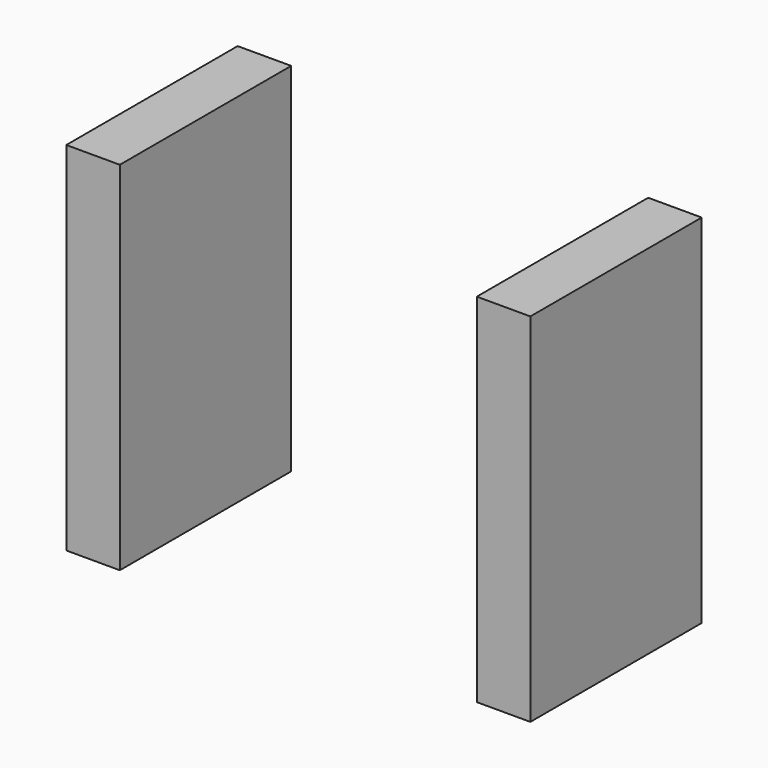
from build123d import *

# Parameters (mm, degrees)
BOX004005_W     = 1.5
BOX004005_H     = 6
BOX004005_DEPTH = 10
BOX004006_W     = 1.5
BOX004006_H     = 6
BOX004006_DEPTH = 10


with BuildPart() as cube009:
    # Box004005 → Box004005 (new body)
    with BuildSketch(Plane(origin=(-6.5, 1, 0), x_dir=(1, 0, 0), z_dir=(0, 0, 1))):
        with Locations((0.75, 3)):
            Rectangle(BOX004005_W, BOX004005_H)
    extrude(amount=BOX004005_DEPTH)


with BuildPart() as fusion001003005:
    # Box004006 → Box004006 (new body)
    with BuildSketch(Plane(origin=(5, 1, 0), x_dir=(1, 0, 0), z_dir=(0, 0, 1))):
        with Locations((0.75, 3)):
            Rectangle(BOX004006_W, BOX004006_H)
    extrude(amount=BOX004006_DEPTH)

    # Fusion001003005: union Cube009
    add(cube009.part)


solid = fusion001003005.part
